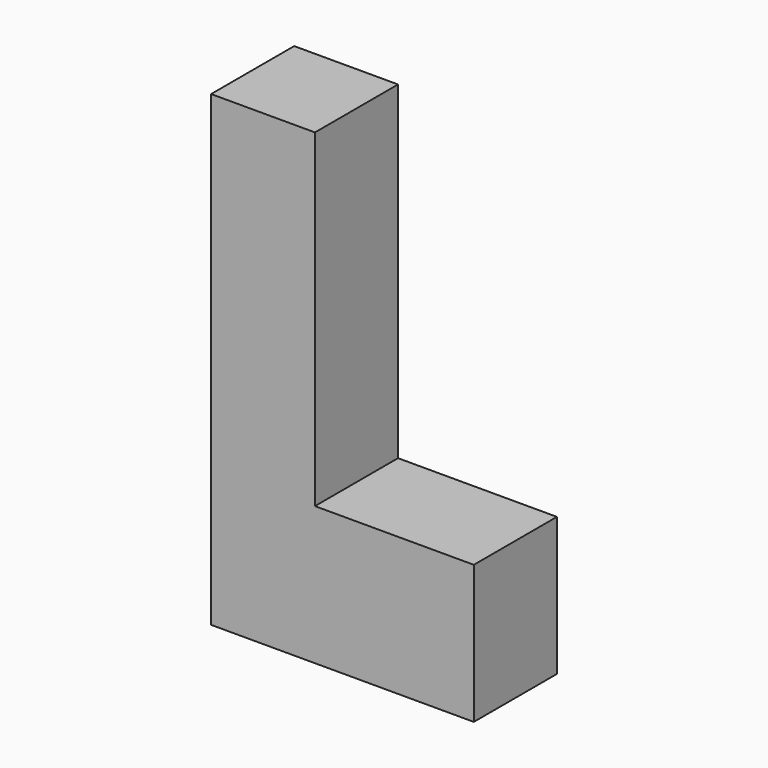
from build123d import *

# Parameters (mm, degrees)
F0_W     = 25.4
F0_H     = 114.3
F1_DEPTH = 25.4
F2_W     = 64.257991
F2_H     = 33.831421
F3_DEPTH = 25.4


with BuildPart() as f1:
    # F0 (on Front) → F1 (new body)
    with BuildSketch(Plane.XZ):
        with Locations((12.7, 57.15)):
            Rectangle(F0_W, F0_H)
    extrude(amount=F1_DEPTH)

    # F2 (on face) → F3 (join)
    with BuildSketch(Plane.XZ.offset(25.4)):
        with Locations((32.128996, 16.91571)):
            Rectangle(F2_W, F2_H)
    extrude(amount=-F3_DEPTH)


solid = f1.part
